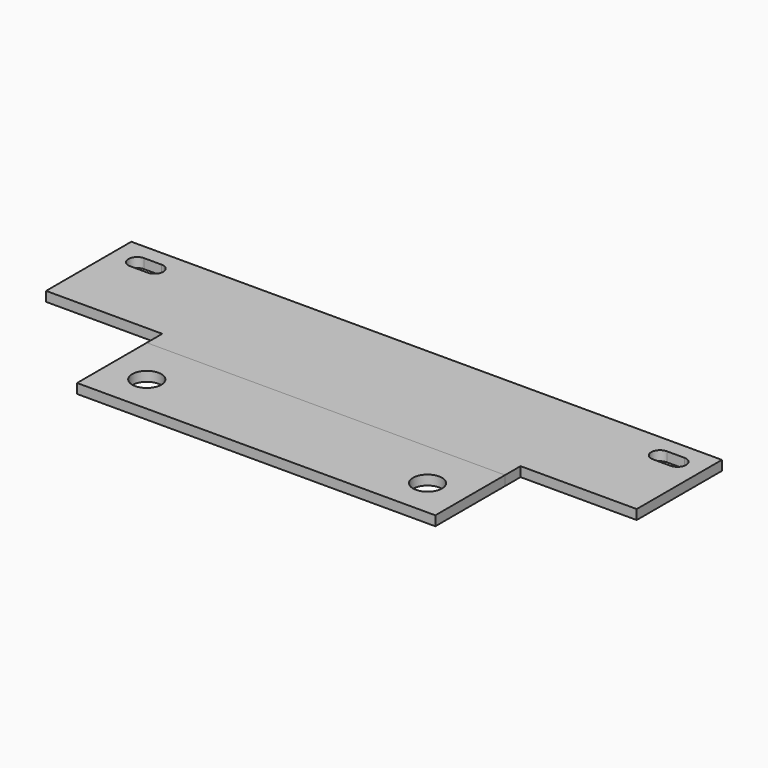
from build123d import *

# Parameters (mm, degrees)
F1_DEPTH = 10
F2_DEPTH = 10
F3_D     = 30


with BuildPart() as f1:
    # F0 (on Top) → F1 (new body)
    with BuildSketch(Plane.XY):
        Polygon((-185, 0), (0, 0), (185, 0), (305, 0), (305, 110), (0, 110), (-305, 110), (-305, 0), align=None)
        with BuildLine():
            Line((-279, 94), (-261, 94))
            ThreePointArc((-261, 94), (-254.6360389693, 91.3639610307), (-252, 85))
            ThreePointArc((-252, 85), (-254.6360389693, 78.6360389693), (-261, 76))
            Line((-261, 76), (-279, 76))
            ThreePointArc((-279, 76), (-288, 85), (-279, 94))
        make_face(mode=Mode.SUBTRACT)
        with BuildLine():
            Line((279, 76), (261, 76))
            ThreePointArc((261, 76), (252, 85), (261, 94))
            Line((261, 94), (279, 94))
            ThreePointArc((279, 94), (285.3639610307, 91.3639610307), (288, 85))
            ThreePointArc((288, 85), (285.3639610307, 78.6360389693), (279, 76))
        make_face(mode=Mode.SUBTRACT)
        Polygon((185, 0), (0, 0), (-185, 0), (-185, -20), (0, -20), (185, -20), align=None)
    extrude(amount=F1_DEPTH)


with BuildPart() as f2:
    # F0 (on Top) → F2 (new body)
    with BuildSketch(Plane.XY):
        Polygon((0, -20), (-185, -20), (-185, -110), (0, -110), (185, -110), (185, -20), align=None)
    extrude(amount=F2_DEPTH)

    # F3 (through all)
    with Locations(Plane(origin=(0, 0, 0), x_dir=(1, 0, 0), z_dir=(0, 0, -1))):
        with Locations((-145, 70), (145, 70)):
            Hole(F3_D / 2)


solid = Compound([f1.part, f2.part])
